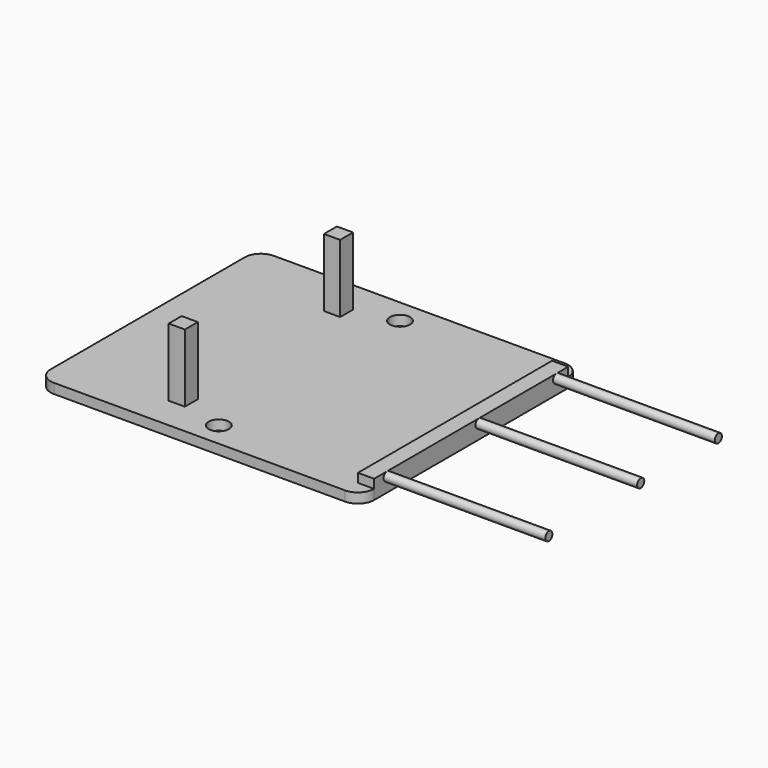
from build123d import *

# Parameters (mm, degrees)
F1_DEPTH = 1.5494
F2_R     = 1.5875
F3_DEPTH = 25.4
F4_W     = 2.54
F4_H     = 2.54
F5_DEPTH = 10.668
F7_W     = 2.54
F7_H     = 38.1
F8_DEPTH = 1.397
F9_DEPTH = 25.4


with BuildPart() as f1:
    # F0 (on Top) → F1 (new body)
    with BuildSketch(Plane.XY):
        with BuildLine():
            ThreePointArc((0, 2.54), (0.743949, 0.743949), (2.54, 0))
            Line((2.54, 0), (48.26, 0))
            ThreePointArc((48.26, 0), (50.056051, 0.743949), (50.8, 2.54))
            Line((50.8, 2.54), (50.8, 40.64))
            ThreePointArc((50.8, 40.64), (50.056051, 42.436051), (48.26, 43.18))
            Line((48.26, 43.18), (2.54, 43.18))
            ThreePointArc((2.54, 43.18), (0.743949, 42.436051), (0, 40.64))
            Line((0, 40.64), (0, 2.54))
        make_face()
    extrude(amount=F1_DEPTH)

    # F2 (on face) → F3 (cut)
    with BuildSketch(Plane.XY.offset(1.5494)):
        with Locations((25.4, 39.37)):
            Circle(F2_R)
        with Locations((25.4, 3.81)):
            Circle(F2_R)
    extrude(amount=-F3_DEPTH, mode=Mode.SUBTRACT)

    # F4 (on face) → F5 (join)
    with BuildSketch(Plane.XY.offset(1.5494)):
        with Locations((17.78, 36.83)):
            Rectangle(F4_W, F4_H)
        with Locations((17.78, 6.35)):
            Rectangle(F4_W, F4_H)
    extrude(amount=F5_DEPTH)

    # F7 (on face) → F8 (join)
    with BuildSketch(Plane.XY.offset(1.5494)):
        with Locations((49.53, 21.59)):
            Rectangle(F7_W, F7_H)
    extrude(amount=F8_DEPTH)

    # F6 (on face) → F9 (join)
    with BuildSketch(Plane.YZ.offset(50.8)):
        with BuildLine():
            ThreePointArc((5.08, 1.5494), (5.573914, 1.753986), (5.7785, 2.2479))
            ThreePointArc((5.7785, 2.2479), (4.586086, 2.741814), (5.08, 1.5494))
        make_face()
        with BuildLine():
            ThreePointArc((23.8125, 2.2479), (22.620086, 2.741814), (23.114, 1.5494))
            ThreePointArc((23.114, 1.5494), (23.607914, 1.753986), (23.8125, 2.2479))
        make_face()
        with BuildLine():
            ThreePointArc((39.0525, 2.2479), (37.860086, 2.741814), (38.354, 1.5494))
            ThreePointArc((38.354, 1.5494), (38.847914, 1.753986), (39.0525, 2.2479))
        make_face()
    extrude(amount=F9_DEPTH)


solid = f1.part
